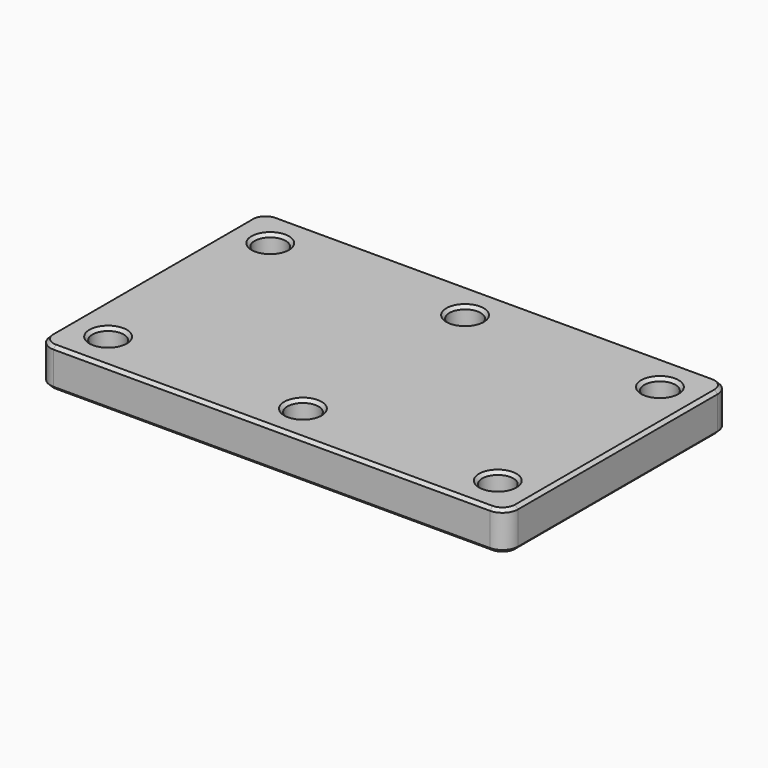
from build123d import *

# Parameters (mm, degrees)
F0_W     = 300
F0_H     = 180
F0_R     = 10
F1_DEPTH = 25
F2_SIZE2 = 2
F2_SIZE  = 2
F3_R     = 10
F4_SIZE2 = 2
F4_SIZE  = 2
F5_SIZE2 = 2
F5_SIZE  = 2
F6_SIZE2 = 2
F6_SIZE  = 2


with BuildPart() as f1:
    # F0 (on Top) → F1 (new body)
    with BuildSketch(Plane.XY):
        with Locations((-20.0385637581, 8.0171129107)):
            Rectangle(F0_W, F0_H)
        with Locations((-145.0385637581, -56.9828870893)):
            Circle(F0_R, mode=Mode.SUBTRACT)
        with Locations((-20.0385637581, -56.9828870893)):
            Circle(F0_R, mode=Mode.SUBTRACT)
        with Locations((104.9614362419, -56.9828870893)):
            Circle(F0_R, mode=Mode.SUBTRACT)
        with Locations((-145.0385637581, 73.0171129107)):
            Circle(F0_R, mode=Mode.SUBTRACT)
        with Locations((-20.0385637581, 73.0171129107)):
            Circle(F0_R, mode=Mode.SUBTRACT)
        with Locations((104.9614362419, 73.0171129107)):
            Circle(F0_R, mode=Mode.SUBTRACT)
    extrude(amount=-F1_DEPTH)

    # F2
    f2_edges = [f1.edges().sort_by_distance(p)[0] for p in [
        (-155.038564, -56.982887, 0),
        (-155.038564, 73.017113, 0),
        (-30.038564, 73.017113, 0),
        (-30.038564, -56.982887, 0),
        (94.961436, -56.982887, 0),
        (94.961436, 73.017113, 0),
    ]]
    chamfer(f2_edges, length=F2_SIZE, length2=F2_SIZE2)

    # F3
    f3_edges = [f1.edges().sort_by_distance(p)[0] for p in [
        (129.961436, -81.982887, -12.5),
        (129.961436, 98.017113, -12.5),
        (-170.038564, -81.982887, -12.5),
        (-170.038564, 98.017113, -12.5),
    ]]
    fillet(f3_edges, radius=F3_R)

    # F4
    f4_edges = [f1.edges().sort_by_distance(p)[0] for p in [
        (127.032504, -79.053955, -25),
        (-167.109632, -79.053955, -25),
        (-167.109632, 95.088181, -25),
        (127.032504, 95.088181, -25),
    ]]
    chamfer(f4_edges, length=F4_SIZE, length2=F4_SIZE2)

    # F5
    f5_edges = [f1.edges().sort_by_distance(p)[0] for p in [
        (-167.109632, 95.088181, 0),
        (-167.109632, -79.053955, 0),
        (127.032504, 95.088181, 0),
        (127.032504, -79.053955, 0),
    ]]
    chamfer(f5_edges, length=F5_SIZE, length2=F5_SIZE2)

    # F6
    f6_edges = [f1.edges().sort_by_distance(p)[0] for p in [
        (94.961436, 73.017113, -25),
        (-30.038564, 73.017113, -25),
        (94.961436, -56.982887, -25),
        (-30.038564, -56.982887, -25),
        (-155.038564, -56.982887, -25),
        (-155.038564, 73.017113, -25),
    ]]
    chamfer(f6_edges, length=F6_SIZE, length2=F6_SIZE2)


solid = f1.part
